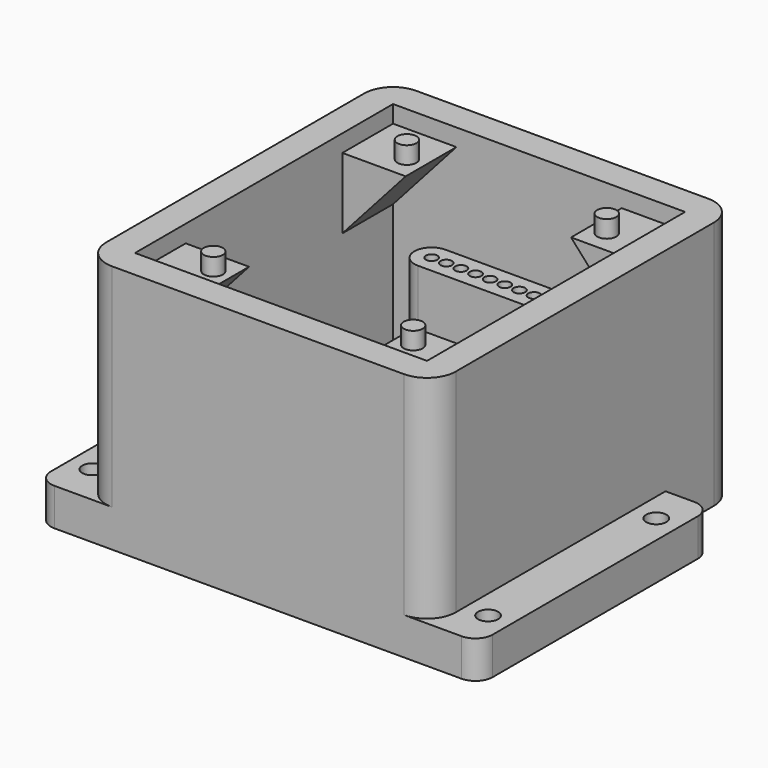
from build123d import *

# Parameters (mm, degrees)
F2_DEPTH  = 6.5
F4_DEPTH  = 21.5
F6_DEPTH  = 68.701
F7_R      = 1
F8_DEPTH  = 26
F9_W      = 11
F9_H      = 11
F10_DEPTH = 12.3
F12_DEPTH = 11
F14_DEPTH = 11
F16_DEPTH = 11
F18_DEPTH = 11
F19_R     = 1.65
F20_DEPTH = 3
F21_R     = 1.75
F22_DEPTH = 6.501
F24_DEPTH = 14


with BuildPart() as f2:
    # F1 (on Top) → F2 (new body)
    with BuildSketch(Plane.XY):
        with BuildLine():
            Line((-30.35, -33), (30.35, -33))
            Line((30.35, -33), (30.35, 17.5))
            Line((30.35, 17.5), (30.35, 28))
            ThreePointArc((30.35, 28), (28.8855339059, 31.5355339059), (25.35, 33))
            Line((25.35, 33), (-25.35, 33))
            ThreePointArc((-25.35, 33), (-28.8855339059, 31.5355339059), (-30.35, 28))
            Line((-30.35, 28), (-30.35, 17.5))
            Line((-30.35, 17.5), (-30.35, -33))
        make_face()
        with BuildLine():
            Line((-35.35, -33), (-30.35, -33))
            Line((-30.35, -33), (-30.35, 17.5))
            Line((-30.35, 17.5), (-35.35, 17.5))
            ThreePointArc((-35.35, 17.5), (-37.4713203436, 16.6213203436), (-38.35, 14.5))
            Line((-38.35, 14.5), (-38.35, -30))
            ThreePointArc((-38.35, -30), (-37.4713203436, -32.1213203436), (-35.35, -33))
        make_face()
        with BuildLine():
            Line((30.35, 17.5), (30.35, -33))
            Line((30.35, -33), (35.35, -33))
            ThreePointArc((35.35, -33), (37.4713203436, -32.1213203436), (38.35, -30))
            Line((38.35, -30), (38.35, 14.5))
            ThreePointArc((38.35, 14.5), (37.4713203436, 16.6213203436), (35.35, 17.5))
            Line((35.35, 17.5), (30.35, 17.5))
        make_face()
    extrude(amount=F2_DEPTH)

    # F3 (on face) → F4 (join)
    with BuildSketch(Plane.XY.offset(6.5)):
        with BuildLine():
            Line((-25.35, -33), (25.35, -33))
            ThreePointArc((25.35, -33), (28.8855339059, -31.5355339059), (30.35, -28))
            Line((30.35, -28), (30.35, 17.5))
            Line((30.35, 17.5), (30.35, 28))
            ThreePointArc((30.35, 28), (28.8855339059, 31.5355339059), (25.35, 33))
            Line((25.35, 33), (-25.35, 33))
            ThreePointArc((-25.35, 33), (-28.8855339059, 31.5355339059), (-30.35, 28))
            Line((-30.35, 28), (-30.35, 17.5))
            Line((-30.35, 17.5), (-30.35, -28))
            ThreePointArc((-30.35, -28), (-28.8855339059, -31.5355339059), (-25.35, -33))
        make_face()
        Polygon((25.35, 28), (25.35, -28), (-25.35, -28), (-25.35, 28), (-15.24, 28), (15.24, 28), align=None, mode=Mode.SUBTRACT)
        with BuildLine():
            ThreePointArc((-11.45, 22), (-14.45, 19), (-11.45, 16))
            Line((-11.45, 16), (11.41, 16))
            ThreePointArc((11.41, 16), (14.41, 19), (11.41, 22))
            Line((11.41, 22), (-11.45, 22))
        make_face()
    extrude(amount=F4_DEPTH)

    # F5 (on face) → F6 (cut, through all)
    with BuildSketch(Plane.YZ.offset(30.35)):
        with BuildLine():
            ThreePointArc((17.6, 2.5), (19, 1.1), (20.4, 2.5))
            ThreePointArc((20.4, 2.5), (20.3043993257, 3.0084706473), (20.0306537155, 3.4474982421))
            ThreePointArc((20.0306537155, 3.4474982421), (18.4915293527, 3.8043993257), (17.6, 2.5))
        make_face()
        with BuildLine():
            ThreePointArc((20.0306537155, 3.4474982421), (20.3043993257, 3.0084706473), (20.4, 2.5))
            ThreePointArc((20.4, 2.5), (19, 1.1), (17.6, 2.5))
            Line((17.6, 2.5), (17.6, 0))
            Line((17.6, 0), (23.2, 0))
            Line((23.2, 0), (20.0306537155, 3.4474982421))
        make_face()
    extrude(amount=-F6_DEPTH, mode=Mode.SUBTRACT)

    # F7 (on face) → F8 (cut)
    with BuildSketch(Plane.XY.offset(28)):
        with Locations((-1.29, 19)):
            Circle(F7_R)
        with Locations((-11.45, 19)):
            Circle(F7_R)
        with Locations((-8.91, 19)):
            Circle(F7_R)
        with Locations((-6.37, 19)):
            Circle(F7_R)
        with Locations((-3.83, 19)):
            Circle(F7_R)
        with Locations((1.25, 19)):
            Circle(F7_R)
        with Locations((3.79, 19)):
            Circle(F7_R)
        with Locations((6.33, 19)):
            Circle(F7_R)
        with Locations((8.87, 19)):
            Circle(F7_R)
        with Locations((11.41, 19)):
            Circle(F7_R)
    extrude(amount=-F8_DEPTH, mode=Mode.SUBTRACT)

    # F9 (on face) → F10 (join)
    with BuildSketch(Plane.XY.offset(28)):
        with BuildLine():
            ThreePointArc((-30.35, -28), (-28.8855339059, -31.5355339059), (-25.35, -33))
            Line((-25.35, -33), (25.35, -33))
            ThreePointArc((25.35, -33), (28.8855339059, -31.5355339059), (30.35, -28))
            Line((30.35, -28), (30.35, 28))
            ThreePointArc((30.35, 28), (28.8855339059, 31.5355339059), (25.35, 33))
            Line((25.35, 33), (-25.35, 33))
            ThreePointArc((-25.35, 33), (-28.8855339059, 31.5355339059), (-30.35, 28))
            Line((-30.35, 28), (-30.35, -28))
        make_face()
        Polygon((-25.35, 17), (-25.35, 28), (-14.35, 28), (14.35, 28), (25.35, 28), (25.35, 17), (25.35, -17), (25.35, -28), (14.35, -28), (-14.35, -28), (-25.35, -28), (-25.35, -17), align=None, mode=Mode.SUBTRACT)
        with Locations((-19.85, 22.5)):
            Rectangle(F9_W, F9_H)
        with Locations((19.85, 22.5)):
            Rectangle(F9_W, F9_H)
        with Locations((-19.85, -22.5)):
            Rectangle(F9_W, F9_H)
        with Locations((19.85, -22.5)):
            Rectangle(F9_W, F9_H)
    extrude(amount=F10_DEPTH)

    # F11 (on face) → F12 (cut)
    with BuildSketch(Plane.XZ.offset(-17)):
        Polygon((-14.35, 28), (-14.35, 40.3), (-25.35, 28), align=None)
    extrude(amount=-F12_DEPTH, mode=Mode.SUBTRACT)

    # F13 (on face) → F14 (cut)
    with BuildSketch(Plane.XZ.offset(-17)):
        Polygon((25.35, 28), (14.35, 40.3), (14.35, 28), align=None)
    extrude(amount=-F14_DEPTH, mode=Mode.SUBTRACT)

    # F15 (on face) → F16 (cut)
    with BuildSketch(Plane(origin=(0, -17, 0), x_dir=(-1, 0, 0), z_dir=(0, 1, 0))):
        Polygon((-14.35, 40.3), (-25.35, 28), (-14.35, 28), align=None)
    extrude(amount=-F16_DEPTH, mode=Mode.SUBTRACT)

    # F17 (on face) → F18 (cut)
    with BuildSketch(Plane(origin=(0, -17, 0), x_dir=(-1, 0, 0), z_dir=(0, 1, 0))):
        Polygon((25.35, 28), (14.35, 40.3), (14.35, 28), align=None)
    extrude(amount=-F18_DEPTH, mode=Mode.SUBTRACT)

    # F19 (on face) → F20 (join)
    with BuildSketch(Plane.XY.offset(40.3)):
        with BuildLine():
            Line((-30.35, 28), (-30.35, -28))
            ThreePointArc((-30.35, -28), (-28.8855339059, -31.5355339059), (-25.35, -33))
            Line((-25.35, -33), (25.35, -33))
            ThreePointArc((25.35, -33), (28.8855339059, -31.5355339059), (30.35, -28))
            Line((30.35, -28), (30.35, 28))
            ThreePointArc((30.35, 28), (28.8855339059, 31.5355339059), (25.35, 33))
            Line((25.35, 33), (-25.35, 33))
            ThreePointArc((-25.35, 33), (-28.8855339059, 31.5355339059), (-30.35, 28))
        make_face()
        Polygon((-25.35, 17), (-25.35, 28), (-14.35, 28), (14.35, 28), (25.35, 28), (25.35, 17), (25.35, -17), (25.35, -28), (14.35, -28), (-14.35, -28), (-25.35, -28), (-25.35, -17), align=None, mode=Mode.SUBTRACT)
        with BuildLine():
            Line((-30.35, 28), (-30.35, -28))
            ThreePointArc((-30.35, -28), (-28.8855339059, -31.5355339059), (-25.35, -33))
            Line((-25.35, -33), (25.35, -33))
            ThreePointArc((25.35, -33), (28.8855339059, -31.5355339059), (30.35, -28))
            Line((30.35, -28), (30.35, 28))
            ThreePointArc((30.35, 28), (28.8855339059, 31.5355339059), (25.35, 33))
            Line((25.35, 33), (-25.35, 33))
            ThreePointArc((-25.35, 33), (-28.8855339059, 31.5355339059), (-30.35, 28))
        make_face()
        Polygon((-25.35, 17), (-25.35, 28), (-14.35, 28), (14.35, 28), (25.35, 28), (25.35, 17), (25.35, -17), (25.35, -28), (14.35, -28), (-14.35, -28), (-25.35, -28), (-25.35, -17), align=None, mode=Mode.SUBTRACT)
        with Locations((-17.35, 21)):
            Circle(F19_R)
        with Locations((17.35, 21)):
            Circle(F19_R)
        with Locations((-17.35, -21)):
            Circle(F19_R)
        with Locations((17.35, -21)):
            Circle(F19_R)
    extrude(amount=F20_DEPTH)

    # F21 (on face) → F22 (cut, through all)
    with BuildSketch(Plane.XY.offset(6.5)):
        with Locations((-34.35, 10.5)):
            Circle(F21_R)
        with Locations((-34.35, -26)):
            Circle(F21_R)
        with Locations((34.35, 10.5)):
            Circle(F21_R)
        with Locations((34.35, -26)):
            Circle(F21_R)
    extrude(amount=-F22_DEPTH, mode=Mode.SUBTRACT)

    # F23 (on face) → F24 (cut)
    with BuildSketch(Plane(origin=(0, 33, 0), x_dir=(-1, 0, 0), z_dir=(0, 1, 0))):
        with BuildLine():
            ThreePointArc((-11.91, 2.5), (-10.16, 0.75), (-8.41, 2.5))
            ThreePointArc((-8.41, 2.5), (-10.16, 4.25), (-11.91, 2.5))
        make_face()
        with BuildLine():
            Line((-8.41, 0), (-8.41, 2.5))
            ThreePointArc((-8.41, 2.5), (-10.16, 0.75), (-11.91, 2.5))
            Line((-11.91, 2.5), (-11.91, 0))
            Line((-11.91, 0), (-8.41, 0))
        make_face()
        with BuildLine():
            ThreePointArc((-3.33, 2.5), (-5.08, 4.25), (-6.83, 2.5))
            ThreePointArc((-6.83, 2.5), (-5.08, 0.75), (-3.33, 2.5))
        make_face()
        with BuildLine():
            Line((-6.83, 2.5), (-6.83, 0))
            Line((-6.83, 0), (-3.33, 0))
            Line((-3.33, 0), (-3.33, 2.5))
            ThreePointArc((-3.33, 2.5), (-5.08, 0.75), (-6.83, 2.5))
        make_face()
        with BuildLine():
            ThreePointArc((1.75, 2.5), (0, 4.25), (-1.75, 2.5))
            ThreePointArc((-1.75, 2.5), (0, 0.75), (1.75, 2.5))
        make_face()
        with BuildLine():
            Line((-1.75, 2.5), (-1.75, 0))
            Line((-1.75, 0), (1.75, 0))
            Line((1.75, 0), (1.75, 2.5))
            ThreePointArc((1.75, 2.5), (0, 0.75), (-1.75, 2.5))
        make_face()
        with BuildLine():
            ThreePointArc((6.83, 2.5), (5.08, 4.25), (3.33, 2.5))
            ThreePointArc((3.33, 2.5), (5.08, 0.75), (6.83, 2.5))
        make_face()
        with BuildLine():
            Line((3.33, 2.5), (3.33, 0))
            Line((3.33, 0), (6.83, 0))
            Line((6.83, 0), (6.83, 2.5))
            ThreePointArc((6.83, 2.5), (5.08, 0.75), (3.33, 2.5))
        make_face()
        with BuildLine():
            ThreePointArc((8.41, 2.5), (10.16, 0.75), (11.91, 2.5))
            ThreePointArc((11.91, 2.5), (10.16, 4.25), (8.41, 2.5))
        make_face()
        with BuildLine():
            Line((8.41, 0), (11.91, 0))
            Line((11.91, 0), (11.91, 2.5))
            ThreePointArc((11.91, 2.5), (10.16, 0.75), (8.41, 2.5))
            Line((8.41, 2.5), (8.41, 0))
        make_face()
    extrude(amount=-F24_DEPTH, mode=Mode.SUBTRACT)


solid = f2.part
